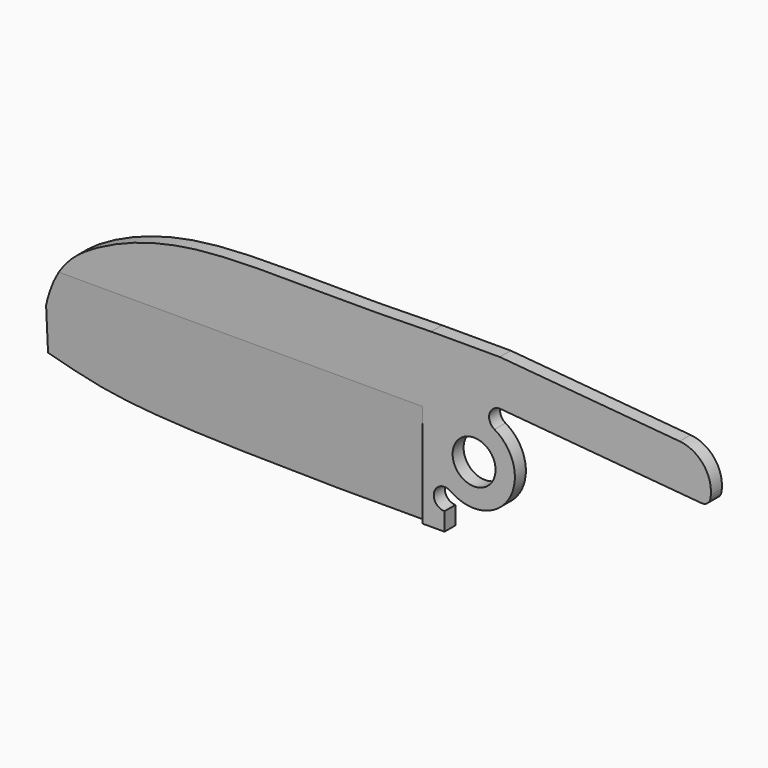
from build123d import *

# Parameters (mm, degrees)
F1_W      = 73.9775
F1_H      = 25.4
F2_DEPTH  = 1.016
F0_R      = 3.175
F0_R_2    = 1.5875
F3_DEPTH  = 12.7
F5_DEPTH  = 12.7
F7_DEPTH  = 25.4
F9_DEPTH  = 25.4
F11_DEPTH = 2.032
F12_R     = 5.08
F13_R     = 1.27
F15_DEPTH = 55.88


with BuildPart() as f2:
    # F1 (on Front) → F2 (new body, symmetric)
    with BuildSketch(Plane.XZ):
        with Locations((-26.51125, 2.202998161)):
            Rectangle(F1_W, F1_H)
    extrude(amount=F2_DEPTH, both=True)

    # F0 (on Front) → F3 (cut, symmetric)
    with BuildSketch(Plane.XZ):
        Circle(F0_R)
        with Locations((3.81, 6.5991135768)):
            Circle(F0_R_2)
        with Locations((-4.370652445, -6.2419385775)):
            Circle(F0_R_2)
    extrude(amount=F3_DEPTH, both=True, mode=Mode.SUBTRACT)

    # F4 (on Front) → F5 (cut, symmetric)
    with BuildSketch(Plane.XZ):
        with BuildLine():
            Line((10.4775, 14.902998161), (3.81, 14.902998161))
            Line((3.81, 14.902998161), (3.81, 6.5991135768))
            Line((3.81, 6.5991135768), (3.01625, 5.2242982483))
            ThreePointArc((3.01625, 5.2242982483), (5.0877588969, -3.2412598874), (-3.4600998523, -4.9415347072))
            Line((-3.4600998523, -4.9415347072), (-4.370652445, -6.2419385775))
            Line((-4.370652445, -6.2419385775), (-4.370652445, -10.497001839))
            Line((-4.370652445, -10.497001839), (10.4775, -10.497001839))
            Line((10.4775, -10.497001839), (10.4775, 14.902998161))
        make_face()
    extrude(amount=F5_DEPTH, both=True, mode=Mode.SUBTRACT)

    # F6 (on face) → F7 (cut)
    with BuildSketch(Plane.XZ.offset(1.016)):
        with BuildLine():
            Line((-63.5, 14.902998161), (-63.5, -0.337001839))
            add(Edge.make_bspline(
                [(-63.5, -0.337001839), (-61.9709865273, 5.3152601071), (-56.9088066681, 9.9391648672), (-40.7433982706, 16.0164172167), (-22.924024983, 14.394998161), (-6.35, 14.902998161)],
                knots=[0, 0, 0, 0, 0.2620535636, 0.5479565048, 1, 1, 1, 1], degree=3))
            Line((-6.35, 14.902998161), (-63.5, 14.902998161))
        make_face()
    extrude(amount=-F7_DEPTH, mode=Mode.SUBTRACT)

    # F8 (on face) → F9 (cut)
    with BuildSketch(Plane.XZ.offset(1.016)):
        with BuildLine():
            add(Edge.make_bspline(
                [(-63.5, -6.687001839), (-59.8332667097, -7.7129509305), (-51.8844924226, -10.1228512544), (-32.61339221, -10.3699269009), (-20.955, -10.497001839)],
                knots=[0, 0, 0, 0, 0.378376679, 1, 1, 1, 1], degree=3))
            Line((-63.5, -6.687001839), (-63.5, -10.497001839))
            Line((-63.5, -10.497001839), (-20.955, -10.497001839))
        make_face()
    extrude(amount=-F9_DEPTH, mode=Mode.SUBTRACT)

    # F10 (on face) → F11 (join, through all)
    with BuildSketch(Plane.XZ.offset(1.016)):
        Polygon((35.4391816644, 12.1358033288), (3.81, 14.902998161), (3.81, 8.1866135768), (34.8560376926, 5.4704372313), align=None)
    extrude(amount=-F11_DEPTH)

    # F12
    f12_edges = [f2.edges().sort_by_distance(p)[0] for p in [
        (35.439182, 0, 12.135803),
    ]]
    fillet(f12_edges, radius=F12_R)

    # F13
    f13_edges = [f2.edges().sort_by_distance(p)[0] for p in [
        (34.856038, 0, 5.470437),
    ]]
    fillet(f13_edges, radius=F13_R)

    # F14 (on face) → F15 (cut)
    with BuildSketch(Plane(origin=(-63.5, 0, 0), x_dir=(0, -1, 0), z_dir=(-1, 0, 0))):
        Polygon((0, -13.037001839), (-1.016, 4.742998161), (-1.016, -13.037001839), align=None)
        Polygon((1.016, 4.742998161), (0, -13.037001839), (1.016, -13.037001839), align=None)
    extrude(amount=-F15_DEPTH, mode=Mode.SUBTRACT)


solid = f2.part
